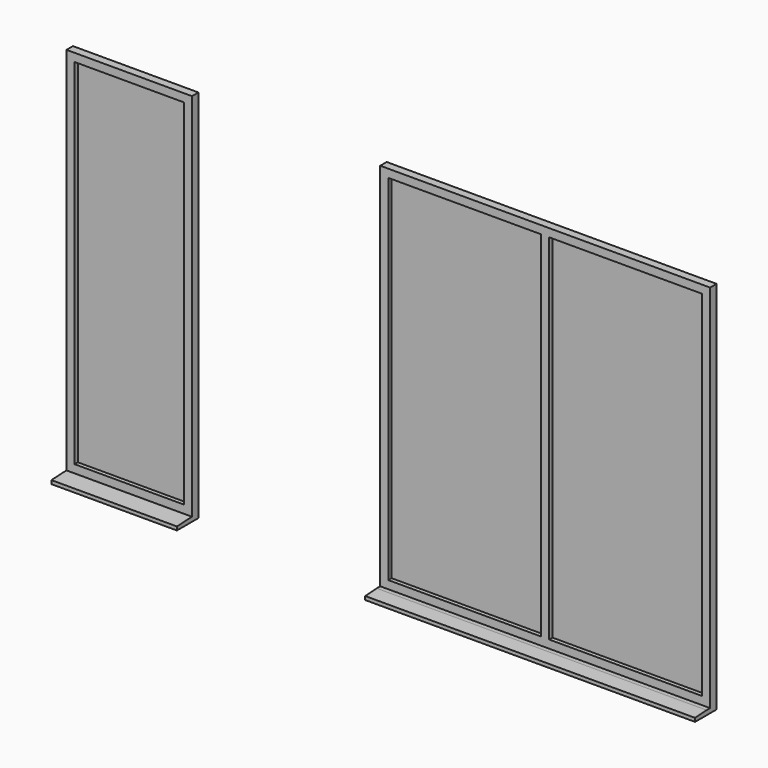
from build123d import *

# Parameters (mm, degrees)
F1_W      = 150
F1_H      = 25
F2_DEPTH  = 1840
F3_W      = 1840
F3_H      = 2065
F3_W_2    = 45
F3_H_2    = 1975
F4_DEPTH  = 45
F3_W_3    = 852.5
F5_DEPTH  = 22
F6_SIZE2  = 80
F6_SIZE   = 5
F8_W      = 150
F8_H      = 25
F9_DEPTH  = 700
F10_W     = 700
F10_H     = 2065
F10_W_2   = 610
F10_H_2   = 1975
F11_DEPTH = 45
F12_DEPTH = 22
F13_SIZE2 = 100
F13_SIZE  = 5


with BuildPart() as f2:
    # F1 (on Right) → F2 (new body)
    with BuildSketch(Plane.YZ):
        with Locations((-75, 12.5)):
            Rectangle(F1_W, F1_H)
    extrude(amount=F2_DEPTH)

    # F3 (on Front) → F4 (join)
    with BuildSketch(Plane.XZ):
        with Locations((920, 1057.5)):
            Rectangle(F3_W, F3_H)
        Polygon((45, 70), (45, 2045), (897.5, 2045), (942.5, 2045), (1795, 2045), (1795, 70), (942.5, 70), (897.5, 70), align=None, mode=Mode.SUBTRACT)
        with Locations((920, 1057.5)):
            Rectangle(F3_W_2, F3_H_2)
    extrude(amount=F4_DEPTH)

    # F6
    f6_edges = [f2.edges().sort_by_distance(p)[0] for p in [
        (920, -150, 25),
    ]]
    f6_side = f2.faces().sort_by_distance((920, -150, 12.5))[0]
    chamfer(f6_edges, length=F6_SIZE, length2=F6_SIZE2, reference=f6_side)


with BuildPart() as f5:
    # F3 (on Front) → F5 (new body)
    with BuildSketch(Plane.XZ):
        with Locations((471.25, 1057.5)):
            Rectangle(F3_W_3, F3_H_2)
    extrude(amount=F5_DEPTH)


with BuildPart() as f5b:
    # F3 (on Front) → F5, piece 2 (new body)
    with BuildSketch(Plane.XZ):
        with Locations((1368.75, 1057.5)):
            Rectangle(F3_W_3, F3_H_2)
    extrude(amount=F5_DEPTH)


with BuildPart() as f9:
    # F8 (on offset) → F9 (new body)
    with BuildSketch(Plane.YZ.offset(-1750)):
        with Locations((-75, 12.5)):
            Rectangle(F8_W, F8_H)
    extrude(amount=F9_DEPTH)

    # F10 (on face) → F11 (join)
    with BuildSketch(Plane(origin=(0, 0, 0), x_dir=(-1, 0, 0), z_dir=(0, 1, 0))):
        with Locations((1400, 1057.5)):
            Rectangle(F10_W, F10_H)
        with Locations((1400, 1057.5)):
            Rectangle(F10_W_2, F10_H_2, mode=Mode.SUBTRACT)
    extrude(amount=-F11_DEPTH)

    # F13
    f13_edges = [f9.edges().sort_by_distance(p)[0] for p in [
        (-1400, -150, 25),
    ]]
    f13_side = f9.faces().sort_by_distance((-1400, -150, 12.5))[0]
    chamfer(f13_edges, length=F13_SIZE, length2=F13_SIZE2, reference=f13_side)


with BuildPart() as f12:
    # F10 (on face) → F12 (new body)
    with BuildSketch(Plane(origin=(0, 0, 0), x_dir=(-1, 0, 0), z_dir=(0, 1, 0))):
        with Locations((1400, 1057.5)):
            Rectangle(F10_W_2, F10_H_2)
    extrude(amount=-F12_DEPTH)


solid = Compound([f2.part, f5.part, f5b.part, f9.part, f12.part])
